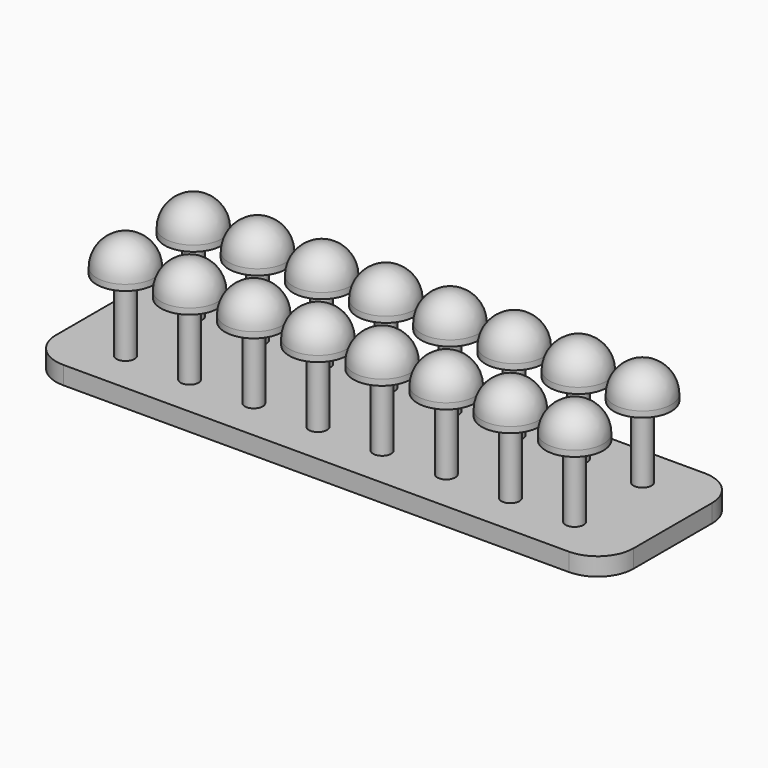
from build123d import *

# Parameters (mm, degrees)
F1_DEPTH = 3.175
F2_R     = 1.5875
F3_DEPTH = 12.7
F4_R     = 5.08
F5_DEPTH = 6.125007
F6_R     = 5.08


with BuildPart() as f1:
    # F0 (on Top) → F1 (new body)
    with BuildSketch(Plane.XY):
        with BuildLine():
            Line((-44.650025, -14.99997), (44.650025, -14.99997))
            ThreePointArc((44.650025, -14.99997), (49.140153, -13.140098), (51.000025, -8.64997))
            Line((51.000025, -8.64997), (51.000025, 8.64997))
            ThreePointArc((51.000025, 8.64997), (49.140153, 13.140098), (44.650025, 14.99997))
            Line((44.650025, 14.99997), (-44.650025, 14.99997))
            ThreePointArc((-44.650025, 14.99997), (-49.140153, 13.140098), (-51.000025, 8.64997))
            Line((-51.000025, 8.64997), (-51.000025, -8.64997))
            ThreePointArc((-51.000025, -8.64997), (-49.140153, -13.140098), (-44.650025, -14.99997))
        make_face()
    extrude(amount=F1_DEPTH)

    # F2 (on face) → F3 (join)
    with BuildSketch(Plane.XY.offset(3.175)):
        with Locations((-39.666686, 7.499985)):
            Circle(F2_R)
        with Locations((-28.333347, 7.499985)):
            Circle(F2_R)
        with Locations((-17.000008, 7.499985)):
            Circle(F2_R)
        with Locations((-5.666669, 7.499985)):
            Circle(F2_R)
        with Locations((5.666669, 7.499985)):
            Circle(F2_R)
        with Locations((17.000008, 7.499985)):
            Circle(F2_R)
        with Locations((28.333347, 7.499985)):
            Circle(F2_R)
        with Locations((39.666686, 7.499985)):
            Circle(F2_R)
        with Locations((-39.666686, -7.499985)):
            Circle(F2_R)
        with Locations((-28.333347, -7.499985)):
            Circle(F2_R)
        with Locations((-17.000008, -7.499985)):
            Circle(F2_R)
        with Locations((-5.666669, -7.499985)):
            Circle(F2_R)
        with Locations((5.666669, -7.499985)):
            Circle(F2_R)
        with Locations((17.000008, -7.499985)):
            Circle(F2_R)
        with Locations((28.333347, -7.499985)):
            Circle(F2_R)
        with Locations((39.666686, -7.499985)):
            Circle(F2_R)
    extrude(amount=F3_DEPTH)

    # F4 (on face) → F5 (join)
    with BuildSketch(Plane.XY.offset(15.875)):
        with Locations((-39.666686, 7.499985)):
            Circle(F4_R)
        with Locations((-28.333347, 7.499985)):
            Circle(F4_R)
        with Locations((-17.000008, 7.499985)):
            Circle(F4_R)
        with Locations((-5.666669, 7.499985)):
            Circle(F4_R)
        with Locations((5.666669, 7.499985)):
            Circle(F4_R)
        with Locations((17.000008, 7.499985)):
            Circle(F4_R)
        with Locations((28.333347, 7.499985)):
            Circle(F4_R)
        with Locations((39.666686, 7.499985)):
            Circle(F4_R)
        with Locations((-39.666686, -7.499985)):
            Circle(F4_R)
        with Locations((-28.333347, -7.499985)):
            Circle(F4_R)
        with Locations((-17.000008, -7.499985)):
            Circle(F4_R)
        with Locations((-5.666669, -7.499985)):
            Circle(F4_R)
        with Locations((5.666669, -7.499985)):
            Circle(F4_R)
        with Locations((17.000008, -7.499985)):
            Circle(F4_R)
        with Locations((28.333347, -7.499985)):
            Circle(F4_R)
        with Locations((39.666686, -7.499985)):
            Circle(F4_R)
    extrude(amount=F5_DEPTH)

    # F6
    f6_edges = [f1.edges().sort_by_distance(p)[0] for p in [
        (-44.746686, 7.499985, 22.000007),
        (-33.413347, 7.499985, 22.000007),
        (-22.080008, 7.499985, 22.000007),
        (-10.746669, 7.499985, 22.000007),
        (0.586669, 7.499985, 22.000007),
        (11.920008, 7.499985, 22.000007),
        (23.253347, 7.499985, 22.000007),
        (34.586686, 7.499985, 22.000007),
        (34.586686, -7.499985, 22.000007),
        (23.253347, -7.499985, 22.000007),
        (11.920008, -7.499985, 22.000007),
        (0.586669, -7.499985, 22.000007),
        (-10.746669, -7.499985, 22.000007),
        (-22.080008, -7.499985, 22.000007),
        (-33.413347, -7.499985, 22.000007),
        (-44.746686, -7.499985, 22.000007),
    ]]
    fillet(f6_edges, radius=F6_R)


solid = f1.part
